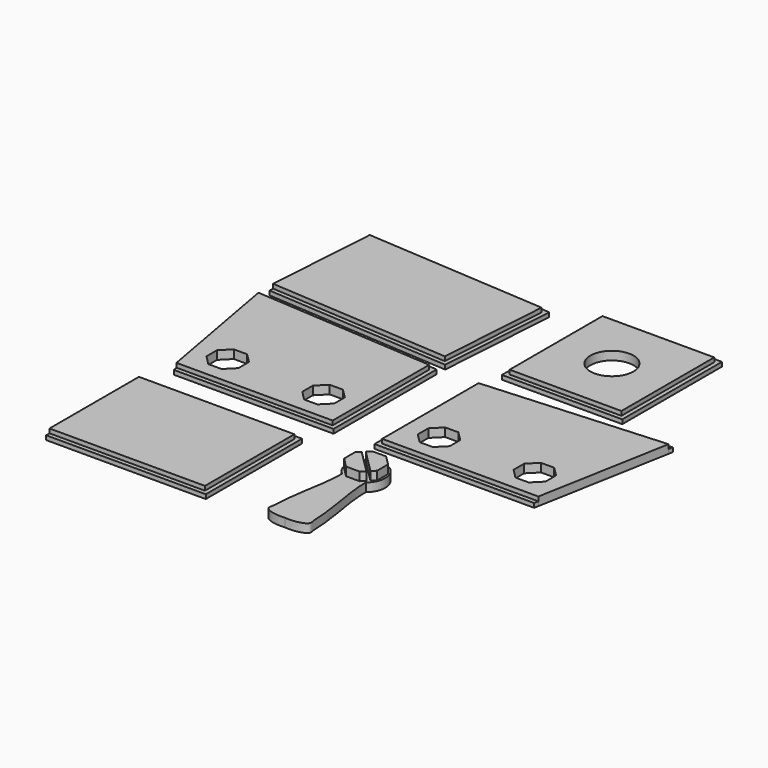
from build123d import *

# Parameters (mm, degrees)
F6_DEPTH  = 8
F7_DEPTH  = 4
F8_DEPTH  = 8
F9_DEPTH  = 4
F10_DEPTH = 8
F11_DEPTH = 4
F2_W      = 146
F2_H      = 105
F12_DEPTH = 8
F13_DEPTH = 4
F4_W      = 105
F4_H      = 108.9911209658
F4_R      = 20.25
F14_DEPTH = 8
F4_W_2    = 113
F4_H_2    = 116.9911209658
F15_DEPTH = 4
F16_DEPTH = 16
F17_DEPTH = 8


with BuildPart() as f6:
    # F1 (on Top) → F6 (new body)
    with BuildSketch(Plane.XY):
        Polygon((-192.5924490942, 32.5955437856), (-169.9471228707, -91.9537504436), (-23.2198501434, -91.9537504436), (-23.2198501434, 21.3040371889), align=None)
        Polygon((-138.0066467078, -48.9537504436), (-129.2198501434, -57.740547008), (-129.2198501434, -70.1669538792), (-138.0066467078, -78.9537504436), (-150.433053579, -78.9537504436), (-159.2198501434, -70.1669538792), (-159.2198501434, -57.740547008), (-150.433053579, -48.9537504436), align=None, mode=Mode.SUBTRACT)
        Polygon((-48.0066467078, -78.9537504436), (-60.433053579, -78.9537504436), (-69.2198501434, -70.1669538792), (-69.2198501434, -57.740547008), (-60.433053579, -48.9537504436), (-48.0066467078, -48.9537504436), (-39.2198501434, -57.740547008), (-39.2198501434, -70.1669538792), align=None, mode=Mode.SUBTRACT)
    extrude(amount=F6_DEPTH)

    # F1 (on Top) → F7 (join)
    with BuildSketch(Plane.XY):
        Polygon((-169.2198501434, -95.9537504436), (-19.2198501434, -95.9537504436), (-19.2198501434, 25.0462495564), (-193.3302795913, 36.6536115196), (-192.5924490942, 32.5955437856), (-23.2198501434, 21.3040371889), (-23.2198501434, -91.9537504436), (-169.9471228707, -91.9537504436), align=None)
    extrude(amount=F7_DEPTH)


with BuildPart() as f8:
    # F1 (on Top) → F8 (new body)
    with BuildSketch(Plane.XY):
        Polygon((23.2198501434, 21.3040371889), (23.2198501434, -91.9537504436), (169.9471228707, -91.9537504436), (192.5924490942, 32.5955437856), align=None)
        Polygon((48.0066467078, -48.9537504436), (60.433053579, -48.9537504436), (69.2198501434, -57.740547008), (69.2198501434, -70.1669538792), (60.433053579, -78.9537504436), (48.0066467078, -78.9537504436), (39.2198501434, -70.1669538792), (39.2198501434, -57.740547008), align=None, mode=Mode.SUBTRACT)
        Polygon((138.0066467078, -48.9537504436), (150.433053579, -48.9537504436), (159.2198501434, -57.740547008), (159.2198501434, -70.1669538792), (150.433053579, -78.9537504436), (138.0066467078, -78.9537504436), (129.2198501434, -70.1669538792), (129.2198501434, -57.740547008), align=None, mode=Mode.SUBTRACT)
    extrude(amount=F8_DEPTH)

    # F1 (on Top) → F9 (join)
    with BuildSketch(Plane.XY):
        Polygon((169.9471228707, -91.9537504436), (23.2198501434, -91.9537504436), (23.2198501434, 21.3040371889), (192.5924490942, 32.5955437856), (193.3302795913, 36.6536115196), (19.2198501434, 25.0462495564), (19.2198501434, -95.9537504436), (169.2198501434, -95.9537504436), align=None)
    extrude(amount=F9_DEPTH)


with BuildPart() as f10:
    # F3 (on Top) → F10 (new body)
    with BuildSketch(Plane.XY):
        Polygon((-186.0797074442, 155.1467761713), (-193.0642035492, 50.3793345964), (-22.6788386906, 39.0203102725), (-15.6943425856, 143.7877518474), align=None)
    extrude(amount=F10_DEPTH)

    # F3 (on Top) → F11 (join)
    with BuildSketch(Plane.XY):
        Polygon((-193.0642035492, 50.3793345964), (-193.3302795913, 46.388193965), (-18.9537741013, 34.763093599), (-11.4371259121, 147.5128164368), (-185.8136314021, 159.1379168028), (-186.0797074442, 155.1467761713), (-15.6943425856, 143.7877518474), (-22.6788386906, 39.0203102725), align=None)
    extrude(amount=F11_DEPTH)


with BuildPart() as f12:
    # F2 (on Top) → F12 (new body)
    with BuildSketch(Plane.XY):
        with Locations((-104.5462678192, -179.0099069476)):
            Rectangle(F2_W, F2_H)
    extrude(amount=F12_DEPTH)

    # F2 (on Top) → F13 (join)
    with BuildSketch(Plane.XY):
        Polygon((-27.5462678192, -122.5099069476), (-177.5462678192, -122.5099069476), (-177.5462678192, -126.5099069476), (-31.5462678192, -126.5099069476), (-31.5462678192, -231.5099069476), (-177.5462678192, -231.5099069476), (-177.5462678192, -235.5099069476), (-27.5462678192, -235.5099069476), align=None)
    extrude(amount=F13_DEPTH)


with BuildPart() as f14:
    # F4 (on Top) → F14 (new body)
    with BuildSketch(Plane.XY):
        with Locations((80.142575264, 106.6662354313)):
            Rectangle(F4_W, F4_H)
        with Locations((80.142575264, 106.6662354313)):
            Circle(F4_R, mode=Mode.SUBTRACT)
    extrude(amount=F14_DEPTH)

    # F4 (on Top) → F15 (join)
    with BuildSketch(Plane.XY):
        with Locations((80.142575264, 106.6662354313)):
            Rectangle(F4_W_2, F4_H_2)
        with Locations((80.142575264, 106.6662354313)):
            Rectangle(F4_W, F4_H, mode=Mode.SUBTRACT)
    extrude(amount=F15_DEPTH)


with BuildPart() as f16:
    # F5 (on Top) → F16 (new body)
    with BuildSketch(Plane.XY):
        Polygon((55.9896586491, -151.4175269914), (34.0693484323, -129.4972167746), (30.5901637125, -132.9764014945), (30.5901637125, -145.817021928), (39.6698534957, -154.8967117112), (52.5104739292, -154.8967117112), align=None)
    extrude(amount=F16_DEPTH)



with BuildPart() as f16b:
    # F5 (on Top) → F16, piece 2 (new body)
    with BuildSketch(Plane.XY):
        Polygon((61.5901637125, -132.9764014945), (52.5104739292, -123.8967117112), (39.6698534957, -123.8967117112), (36.1906687759, -127.3758964311), (58.1109789926, -149.2962066479), (61.5901637125, -145.817021928), align=None)
    extrude(amount=F16_DEPTH)


with BuildPart() as f16_1:
    add(f16.part)

    add(f16b.part)  # F17 merges F16b
    # F5 (on Top) → F17 (join)
    with BuildSketch(Plane.XY):
        with BuildLine():
            ThreePointArc((57.4038722114, -153.3967117112), (46.0901637125, -157.3967117112), (34.7764552135, -153.3967117112))
            add(Edge.make_bspline(
                [(34.7764552135, -153.3967117112), (35.7299080503, -167.101117647), (26.9858458268, -204.8912572591), (27.9928429906, -223.3672958501), (24.6374547092, -231.9853224777), (37.4461217021, -235.2007776701), (46.0901637125, -234.3967117112)],
                knots=[0, 0, 0, 0, 0.3936758869, 0.6297535731, 0.7603885514, 1, 1, 1, 1], degree=3))
            add(Edge.make_bspline(
                [(57.4038722114, -153.3967117112), (56.4504193746, -167.101117647), (65.1944815981, -204.8912572591), (64.1874844343, -223.3672958501), (67.5428727157, -231.9853224777), (54.7342057228, -235.2007776701), (46.0901637125, -234.3967117112)],
                knots=[0, 0, 0, 0, 0.3936758869, 0.6297535731, 0.7603885514, 1, 1, 1, 1], degree=3))
        make_face()
        with BuildLine():
            ThreePointArc((57.4038722114, -153.3967117112), (62.3328043996, -147.1540710241), (64.0901637125, -139.3967117112))
            ThreePointArc((64.0901637125, -139.3967117112), (38.3328043996, -123.1540710241), (34.7764552135, -153.3967117112))
            ThreePointArc((34.7764552135, -153.3967117112), (46.0901637125, -157.3967117112), (57.4038722114, -153.3967117112))
        make_face()
        Polygon((39.6698534957, -123.8967117112), (52.5104739292, -123.8967117112), (61.5901637125, -132.9764014945), (61.5901637125, -145.817021928), (58.1109789926, -149.2962066479), (55.9896586491, -151.4175269914), (52.5104739292, -154.8967117112), (39.6698534957, -154.8967117112), (30.5901637125, -145.817021928), (30.5901637125, -132.9764014945), (34.0693484323, -129.4972167746), (36.1906687759, -127.3758964311), align=None, mode=Mode.SUBTRACT)
        Polygon((58.1109789926, -149.2962066479), (36.1906687759, -127.3758964311), (34.0693484323, -129.4972167746), (55.9896586491, -151.4175269914), align=None)
    extrude(amount=F17_DEPTH)


solid = Compound([f6.part, f8.part, f10.part, f12.part, f14.part, f16_1.part])
